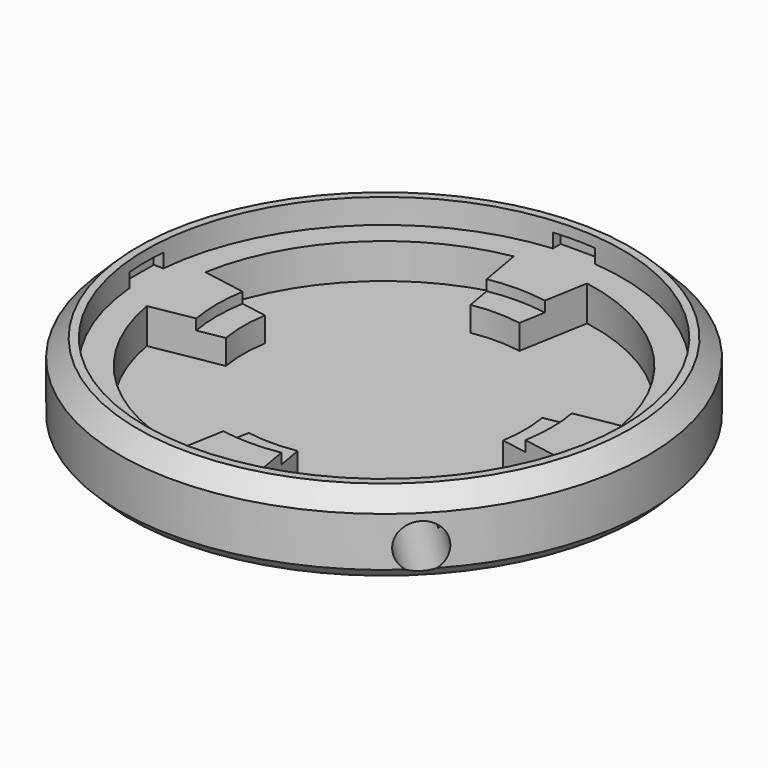
from build123d import *

# Parameters (mm, degrees)
SKETCH002_R           = 15
SKETCH002_R_2         = 13.55
PAD002_DEPTH          = 3
PAD002_DEPTH_BACK     = 1.4
CHAMFER001_SIZE       = 1
CHAMFER002_SIZE       = 0.6
SKETCH003_R           = 13.55
PAD003_DEPTH          = 1
SKETCH004_W           = 1.1
SKETCH004_H           = 2.4
POCKET_DEPTH          = 0.8
SKETCH005_R           = 13.55
SKETCH005_R_2         = 12
PAD005_DEPTH          = 2
PAD006_DEPTH          = 2
POLARPATTERN001_COUNT = 4
SKETCH007_R           = 9.5
POCKET001_DEPTH       = 0.6
SKETCH008_R           = 1.3
POCKET002_DEPTH       = 7


with BuildPart() as part:
    # Sketch002 → Pad002 (new body, two sides)
    with BuildSketch(Plane.XY) as pad002_sk:
        Circle(SKETCH002_R)
        Circle(SKETCH002_R_2, mode=Mode.SUBTRACT)
    extrude(amount=-PAD002_DEPTH)
    extrude(pad002_sk.sketch, amount=PAD002_DEPTH_BACK)

    # Chamfer001
    chamfer001_edges = [part.edges().sort_by_distance(p)[0] for p in [
        (-15, 0, 1.4),
    ]]
    chamfer(chamfer001_edges, length=CHAMFER001_SIZE)

    # Chamfer002
    chamfer002_edges = [part.edges().sort_by_distance(p)[0] for p in [
        (-15, 0, -3),
    ]]
    chamfer(chamfer002_edges, length=CHAMFER002_SIZE)

    # Sketch003 → Pad003 (join)
    with BuildSketch(Plane.XY.offset(-3)):
        Circle(SKETCH003_R)
    extrude(amount=PAD003_DEPTH)

    # Sketch004 → Pocket (cut)
    with BuildSketch(Plane.XY):
        with Locations((13.5, 0)):
            Rectangle(SKETCH004_W, SKETCH004_H)
    pocket = extrude(amount=POCKET_DEPTH, mode=Mode.SUBTRACT)

    # Sketch005 → Pad005 (join)
    with BuildSketch(Plane.XY):
        Circle(SKETCH005_R)
        Circle(SKETCH005_R_2, mode=Mode.SUBTRACT)
    extrude(amount=-PAD005_DEPTH)

    # Sketch006 → Pad006 (join)
    with BuildSketch(Plane.XY):
        with BuildLine():
            ThreePointArc((12.310097, -2.170602), (12.5, 0), (12.310097, 2.170602))
            Line((7.878462, 1.389185), (12.310097, 2.170602))
            ThreePointArc((7.878462, -1.389185), (8, 0), (7.878462, 1.389185))
            Line((7.878462, -1.389185), (12.310097, -2.170602))
        make_face()
    pad006 = extrude(amount=-PAD006_DEPTH)

    # PolarPattern001: Pocket, Pad006 ×4 about axis
    polarpattern001_axis = Axis((0, 0, 0), (0, 0, 1))
    for i in range(1, POLARPATTERN001_COUNT):
        add(pocket.rotate(polarpattern001_axis, i * 360 / POLARPATTERN001_COUNT), mode=Mode.SUBTRACT)
        add(pad006.rotate(polarpattern001_axis, i * 360 / POLARPATTERN001_COUNT))

    # Sketch007 → Pocket001 (cut)
    with BuildSketch(Plane.XY):
        Circle(SKETCH007_R)
    extrude(amount=-POCKET001_DEPTH, mode=Mode.SUBTRACT)

    # Sketch008 → Pocket002 (cut)
    with BuildSketch(Plane(origin=(11, -11, 0), x_dir=(0.707107, 0.707107, 0), z_dir=(0.707107, -0.707107, 0))):
        with Locations((0, -1.3)):
            Circle(SKETCH008_R)
    extrude(amount=-POCKET002_DEPTH, mode=Mode.SUBTRACT)


solid = part.part
